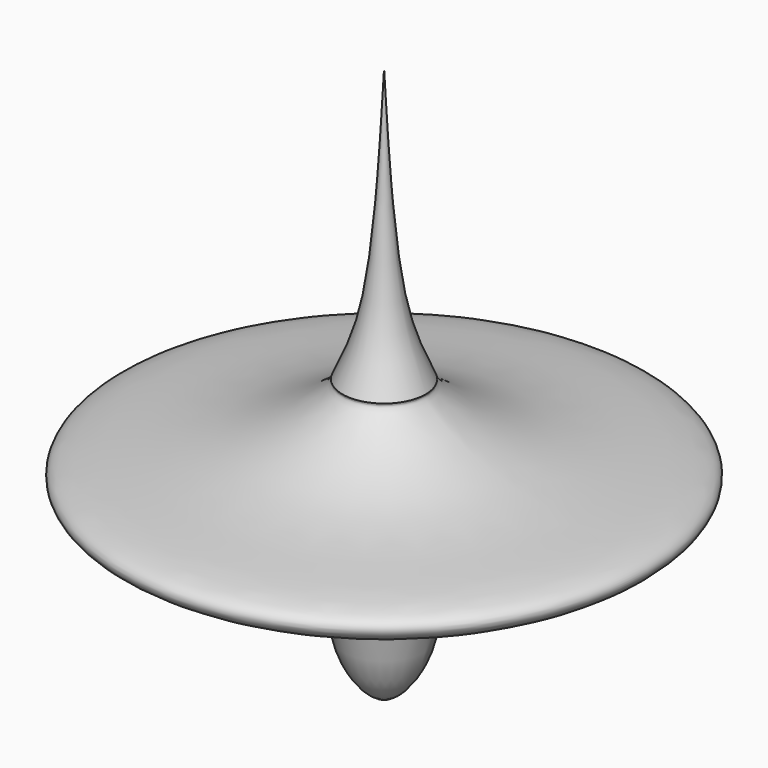
from build123d import *


with BuildPart() as f1:
    # F0 (on Front) → F1 (revolve)
    with BuildSketch(Plane.XZ):
        with BuildLine():
            Line((0, 15.0827551261), (0, 9.8399995768))
            Line((0, 9.8399995768), (0, -11.6276694462))
            add(Edge.make_bspline(
                [(0, -11.6276694462), (0.9203358353, -11.380502035), (2.3776293516, -9.0359346578), (1.9202692551, -4.7907224953), (12.5982596128, -3.4336773017), (12.9078606552, -1.1614221723), (5.9419655748, -1.4599192999), (1.8517291188, 1.5479717255), (1.9763293347, 1.8663059812), (1.9966349937, 1.918128808)],
                knots=[0, 0, 0, 0, 0.1384945874, 0.2858059785, 0.5257707635, 0.5979691592, 0.7973911066, 0.9657639904, 1, 1, 1, 1], degree=3))
            add(Edge.make_bspline(
                [(1.9966349937, 1.918128808), (1.595598698, 2.7907077511), (0.4912328572, 5.1935984331), (0.1911265497, 11.2351289538), (0, 15.0827551261)],
                knots=[0, 0, 0, 0, 0.3631371787, 1, 1, 1, 1], degree=3))
        make_face()
    revolve(axis=Axis((0, 0, -0.8938349347), (0, 0, -1)))


solid = f1.part
